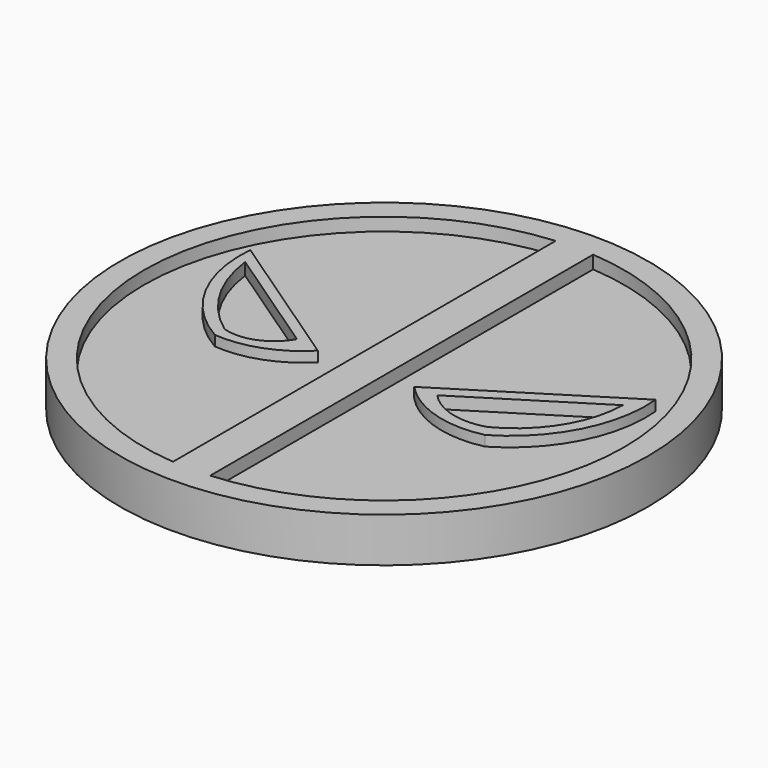
from build123d import *

# Parameters (mm, degrees)
F0_R     = 72.129712
F1_DEPTH = 12.192
F2_DEPTH = 8.636
F3_DEPTH = 11.43
F4_DEPTH = 8.128


with BuildPart() as f1:
    # F0 (on Top) → F1 (new body)
    with BuildSketch(Plane.XY):
        Circle(F0_R)
        with BuildLine():
            ThreePointArc((4.806476, 65.403976), (48.04161, 44.640631), (65.580349, 0))
            ThreePointArc((65.580349, 0), (48.04161, -44.640631), (4.806476, -65.403976))
            ThreePointArc((4.806476, -65.403976), (-0.298713, -65.579669), (-5.40209, -65.357476))
            ThreePointArc((-5.40209, -65.357476), (-65.580349, 0), (-5.40209, 65.357476))
            ThreePointArc((-5.40209, 65.357476), (-0.298713, 65.579669), (4.806476, 65.403976))
        make_face(mode=Mode.SUBTRACT)
        with BuildLine():
            Line((4.806476, -65.403976), (4.806476, 65.403976))
            ThreePointArc((4.806476, 65.403976), (-0.298713, 65.579669), (-5.40209, 65.357476))
            Line((-5.40209, 65.357476), (-5.40209, -65.357476))
            ThreePointArc((-5.40209, -65.357476), (-0.298713, -65.579669), (4.806476, -65.403976))
        make_face()
    extrude(amount=F1_DEPTH)

    # F0 (on Top) → F2 (join)
    with BuildSketch(Plane.XY):
        with BuildLine():
            Line((-5.40209, -65.357476), (-5.40209, 65.357476))
            ThreePointArc((-5.40209, 65.357476), (-65.580349, 0), (-5.40209, -65.357476))
        make_face()
        with BuildLine():
            ThreePointArc((-35.997212, -12.835954), (-50.439117, 2.12982), (-54.568859, 22.513349))
            Line((-54.568859, 22.513349), (-14.25985, -4.810002))
            ThreePointArc((-14.25985, -4.810002), (-24.227117, -11.264353), (-35.997212, -12.835954))
        make_face(mode=Mode.SUBTRACT)
        with BuildLine():
            ThreePointArc((4.806476, -65.403976), (48.04161, -44.640631), (65.580349, 0))
            ThreePointArc((65.580349, 0), (48.04161, 44.640631), (4.806476, 65.403976))
            Line((4.806476, 65.403976), (4.806476, -65.403976))
        make_face()
        with BuildLine():
            ThreePointArc((37.965938, -12.946998), (24.058988, -12.403736), (12.256999, -5.027325))
            Line((12.256999, -5.027325), (56.192723, 22.513349))
            ThreePointArc((56.192723, 22.513349), (52.24232, 2.129374), (37.965938, -12.946998))
        make_face(mode=Mode.SUBTRACT)
    extrude(amount=F2_DEPTH)

    # F0 (on Top) → F3 (join)
    with BuildSketch(Plane.XY):
        with BuildLine():
            Line((-14.25985, -4.810002), (-54.568859, 22.513349))
            ThreePointArc((-54.568859, 22.513349), (-50.439117, 2.12982), (-35.997212, -12.835954))
            ThreePointArc((-35.997212, -12.835954), (-24.227117, -11.264353), (-14.25985, -4.810002))
        make_face()
        with BuildLine():
            ThreePointArc((-35.997212, -9.472951), (-46.80737, 2.354515), (-51.982607, 17.519125))
            Line((-51.982607, 17.519125), (-21.073241, -3.432703))
            ThreePointArc((-21.073241, -3.432703), (-27.461786, -9.105034), (-35.997212, -9.472951))
        make_face(mode=Mode.SUBTRACT)
        with BuildLine():
            Line((56.192723, 22.513349), (12.256999, -5.027325))
            ThreePointArc((12.256999, -5.027325), (24.058988, -12.403736), (37.965938, -12.946998))
            ThreePointArc((37.965938, -12.946998), (52.24232, 2.129374), (56.192723, 22.513349))
        make_face()
        with BuildLine():
            Line((18.524186, -5.007584), (52.319836, 16.176885))
            ThreePointArc((52.319836, 16.176885), (47.754564, 0.943554), (35.997216, -9.764426))
            ThreePointArc((35.997216, -9.764426), (26.574656, -9.906012), (18.524186, -5.007584))
        make_face(mode=Mode.SUBTRACT)
    extrude(amount=F3_DEPTH)

    # F0 (on Top) → F4 (join)
    with BuildSketch(Plane.XY):
        with BuildLine():
            Line((-21.073241, -3.432703), (-51.982607, 17.519125))
            ThreePointArc((-51.982607, 17.519125), (-46.80737, 2.354515), (-35.997212, -9.472951))
            ThreePointArc((-35.997212, -9.472951), (-27.461786, -9.105034), (-21.073241, -3.432703))
        make_face()
        with BuildLine():
            ThreePointArc((35.997216, -9.764426), (47.754564, 0.943554), (52.319836, 16.176885))
            Line((52.319836, 16.176885), (18.524186, -5.007584))
            ThreePointArc((18.524186, -5.007584), (26.574656, -9.906012), (35.997216, -9.764426))
        make_face()
    extrude(amount=F4_DEPTH)


solid = f1.part
